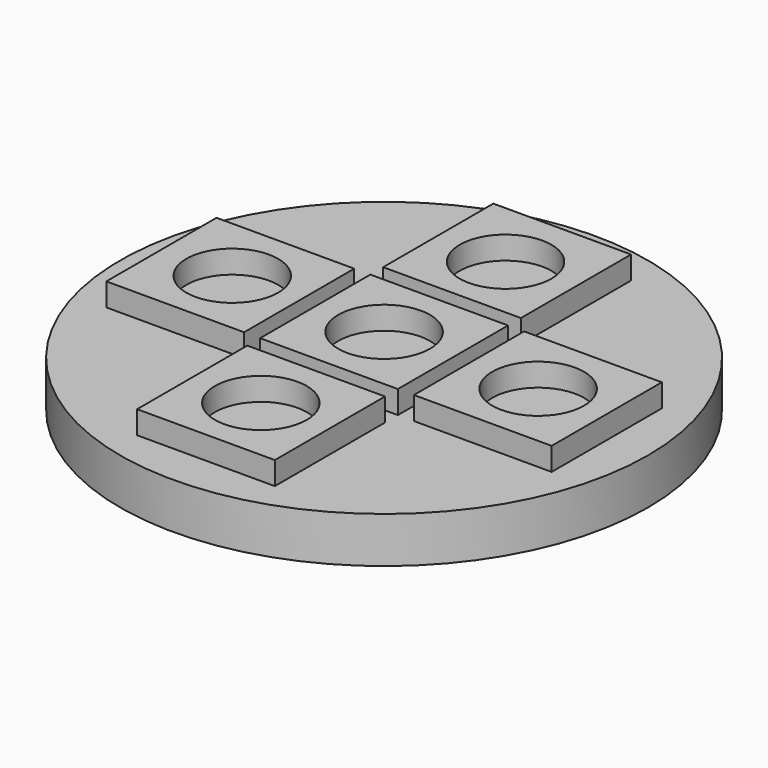
from build123d import *

# Parameters (mm, degrees)
CYLINDER_R      = 11.5
CYLINDER_DEPTH  = 2
SKETCH002_W     = 6
SKETCH002_H     = 6
PAD001_DEPTH    = 1
SKETCH003_R     = 2
POCKET001_DEPTH = 1
SKETCH004_W     = 6
SKETCH004_H     = 6
PAD002_DEPTH    = 1
SKETCH005_R     = 2
POCKET002_DEPTH = 1


with BuildPart() as part:
    # Cylinder → Cylinder (new body)
    with BuildSketch(Plane.XY):
        Circle(CYLINDER_R)
    extrude(amount=CYLINDER_DEPTH)

    # Sketch002 → Pad001 (new body)
    with BuildSketch(Plane.XY.offset(2)):
        Rectangle(SKETCH002_W, SKETCH002_H)
    extrude(amount=PAD001_DEPTH)

    # Sketch003 → Pocket001 (cut)
    with BuildSketch(Plane.XY.offset(3)):
        Circle(SKETCH003_R)
    extrude(amount=-POCKET001_DEPTH, mode=Mode.SUBTRACT)

    # Sketch004 → Pad002 (new body)
    with BuildSketch(Plane.XY.offset(2)):
        with Locations((0, 6.7)):
            Rectangle(SKETCH004_W, SKETCH004_H)
        with Locations((-6.7, 0)):
            Rectangle(SKETCH004_W, SKETCH004_H)
        with Locations((0, -6.7)):
            Rectangle(SKETCH004_W, SKETCH004_H)
        with Locations((6.7, 0)):
            Rectangle(SKETCH004_W, SKETCH004_H)
    extrude(amount=PAD002_DEPTH)

    # Sketch005 → Pocket002 (cut)
    with BuildSketch(Plane.XY.offset(3)):
        with Locations((0, 6.615592)):
            Circle(SKETCH005_R)
        with Locations((-6.615583, 0)):
            Circle(SKETCH005_R)
        with Locations((6.712149, 0)):
            Circle(SKETCH005_R)
        with Locations((0, -6.712142)):
            Circle(SKETCH005_R)
    extrude(amount=-POCKET002_DEPTH, mode=Mode.SUBTRACT)


with BuildPart() as part_1:
    # Clone001 placement: moved
    add(part.part.moved(Location((-7, -6, -13))))


solid = part_1.part
